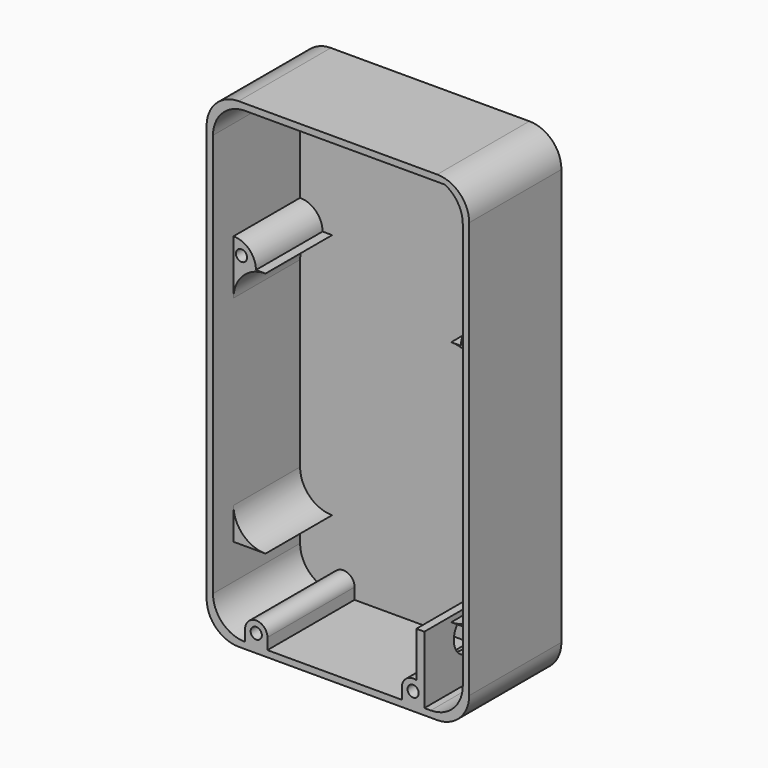
from build123d import *

# Parameters (mm, degrees)
CYLINDER030_R             = 1.75
CYLINDER030_DEPTH         = 8
CYLINDER029_R             = 1.75
CYLINDER029_DEPTH         = 8
CYLINDER027_W             = 7
CYLINDER027_H             = 26
CYLINDER027_ANGLE         = 90
CYLINDER028_W             = 7
CYLINDER028_H             = 26
CYLINDER028_ANGLE         = 90
CYLINDER022_R             = 1.75
CYLINDER022_DEPTH         = 8
CYLINDER026_R             = 7
CYLINDER026_DEPTH         = 5
CYLINDER025_R             = 6
CYLINDER025_DEPTH         = 20
FUSION007_PLACEMENT_ANGLE = 270
CYLINDER024_R             = 1.75
CYLINDER024_DEPTH         = 8
CYLINDER023_R             = 3.5
CYLINDER023_DEPTH         = 34
BOX022_W                  = 7
BOX022_H                  = 34
BOX022_DEPTH              = 3.5
BOX023_W                  = 7
BOX023_H                  = 34
BOX023_DEPTH              = 3.5
BOX024_W                  = 2.5
BOX024_H                  = 34
BOX024_DEPTH              = 17.5
CYLINDER017_W             = 10
CYLINDER017_H             = 26
CYLINDER017_ANGLE         = 90
BOX018_W                  = 10
BOX018_H                  = 26
BOX018_DEPTH              = 10
CUT018_PLACEMENT_ANGLE    = 180
CYLINDER018_W             = 10
CYLINDER018_H             = 26
CYLINDER018_ANGLE         = 90
BOX019_W                  = 10
BOX019_H                  = 26
BOX019_DEPTH              = 10
CUT019_PLACEMENT_ANGLE    = 270
CYLINDER019_W             = 10
CYLINDER019_H             = 26
CYLINDER019_ANGLE         = 90
BOX020_W                  = 10
BOX020_H                  = 26
BOX020_DEPTH              = 10
CYLINDER020_W             = 10
CYLINDER020_H             = 26
CYLINDER020_ANGLE         = 90
BOX021_W                  = 10
BOX021_H                  = 26
BOX021_DEPTH              = 10
CUT021_PLACEMENT_ANGLE    = 270
CYLINDER014_W             = 10
CYLINDER014_H             = 34
CYLINDER014_ANGLE         = 90
BOX015_W                  = 10
BOX015_H                  = 34
BOX015_DEPTH              = 10
CUT013_PLACEMENT_ANGLE    = 180
CYLINDER015_W             = 10
CYLINDER015_H             = 34
CYLINDER015_ANGLE         = 90
BOX016_W                  = 10
BOX016_H                  = 34
BOX016_DEPTH              = 10
CUT014_PLACEMENT_ANGLE    = 180
CYLINDER016_W             = 10
CYLINDER016_H             = 34
CYLINDER016_ANGLE         = 90
BOX017_W                  = 10
BOX017_H                  = 34
BOX017_DEPTH              = 10
CUT015_PITCH_ANGLE        = -90
CUT015_PLACEMENT_ANGLE    = 180
CYLINDER013_W             = 10
CYLINDER013_H             = 34
CYLINDER013_ANGLE         = 90
BOX013_W                  = 10
BOX013_H                  = 34
BOX013_DEPTH              = 10
CUT012_PITCH_ANGLE        = 90
CUT012_PLACEMENT_ANGLE    = -180
BOX014_W                  = 78
BOX014_H                  = 34
BOX014_DEPTH              = 146
CYLINDER009_W             = 10
CYLINDER009_H             = 36
CYLINDER009_ANGLE         = 90
BOX009_W                  = 10
BOX009_H                  = 36
BOX009_DEPTH              = 10
CUT007_PLACEMENT_ANGLE    = 180
CYLINDER010_W             = 10
CYLINDER010_H             = 36
CYLINDER010_ANGLE         = 90
BOX010_W                  = 10
BOX010_H                  = 36
BOX010_DEPTH              = 10
CUT008_PLACEMENT_ANGLE    = 180
CYLINDER011_W             = 10
CYLINDER011_H             = 36
CYLINDER011_ANGLE         = 90
BOX011_W                  = 10
BOX011_H                  = 36
BOX011_DEPTH              = 10
CUT009_PITCH_ANGLE        = -90
CUT009_PLACEMENT_ANGLE    = -180
CYLINDER008_W             = 10
CYLINDER008_H             = 36
CYLINDER008_ANGLE         = 90
BOX007_W                  = 10
BOX007_H                  = 36
BOX007_DEPTH              = 10
CUT006_PITCH_ANGLE        = 90
CUT006_PLACEMENT_ANGLE    = -180
BOX008_W                  = 82
BOX008_H                  = 36
BOX008_DEPTH              = 150
CYLINDER021_R             = 3.5
CYLINDER021_DEPTH         = 34


with BuildPart() as cylinder030:
    # Cylinder030 → Cylinder030 (new body)
    with BuildSketch(Plane(origin=(75.5, -2, 100.5), x_dir=(1, 0, 0), z_dir=(0, -1, 0))):
        Circle(CYLINDER030_R)
    extrude(amount=CYLINDER030_DEPTH)


with BuildPart() as basecuts001:
    # Cylinder029 → Cylinder029 (new body)
    with BuildSketch(Plane(origin=(2.5, -2, 100.5), x_dir=(1, 0, 0), z_dir=(0, -1, 0))):
        Circle(CYLINDER029_R)
    extrude(amount=CYLINDER029_DEPTH)

    # Fusion011: union Cylinder030
    add(cylinder030.part)


with BuildPart() as basecuts001_1:
    # Fusion011 placement: moved
    add(basecuts001.part.moved(Location((0, 8, 0))))


with BuildPart() as mainmounts:
    # Cylinder027 → Cylinder027 (revolve)
    with BuildSketch(Plane(origin=(0, 24, 98), x_dir=(1, 0, 0), z_dir=(0, 0, -1))):
        with Locations((3.5, 13)):
            Rectangle(CYLINDER027_W, CYLINDER027_H)
    revolve(axis=Axis((0, 24, 98), (0, -1, 0)), revolution_arc=CYLINDER027_ANGLE)


with BuildPart() as fusion012:
    # Cylinder028 → Cylinder028 (revolve)
    with BuildSketch(Plane(origin=(78, 24, 98), x_dir=(0, 0, 1), z_dir=(1, 0, 0))):
        with Locations((3.5, 13)):
            Rectangle(CYLINDER028_W, CYLINDER028_H)
    revolve(axis=Axis((78, 24, 98), (0, -1, 0)), revolution_arc=CYLINDER028_ANGLE)

    # Fusion012: union mainMounts
    add(mainmounts.part)


with BuildPart() as cylinder022:
    # Cylinder022 → Cylinder022 (new body)
    with BuildSketch(Plane(origin=(13.5, -2, 3.5), x_dir=(1, 0, 0), z_dir=(0, -1, 0))):
        Circle(CYLINDER022_R)
    extrude(amount=CYLINDER022_DEPTH)


with BuildPart() as cylinder026:
    # Cylinder026 → Cylinder026 (new body)
    with BuildSketch(Plane.XY):
        Circle(CYLINDER026_R)
    extrude(amount=CYLINDER026_DEPTH)


with BuildPart() as powerswitch:
    # Cylinder025 → Cylinder025 (new body)
    with BuildSketch(Plane.XY):
        Circle(CYLINDER025_R)
    extrude(amount=CYLINDER025_DEPTH)

    # Fusion007: union Cylinder026
    add(cylinder026.part)


with BuildPart() as powerswitch_1:
    # Fusion007 placement: moved
    add(powerswitch.part.moved(Location((71, 7.5, 14))).rotate(Axis((71, 7.5, 14), (0, 1, 0)), FUSION007_PLACEMENT_ANGLE))


with BuildPart() as basecuts:
    # Cylinder024 → Cylinder024 (new body)
    with BuildSketch(Plane(origin=(62.5, -2, 3.5), x_dir=(1, 0, 0), z_dir=(0, -1, 0))):
        Circle(CYLINDER024_R)
    extrude(amount=CYLINDER024_DEPTH)

    # Fusion010: union Cylinder022, powerSwitch
    add(cylinder022.part)
    add(powerswitch_1.part)


with BuildPart() as cylinder023:
    # Cylinder023 → Cylinder023 (new body)
    with BuildSketch(Plane(origin=(62.5, 24, 3.5), x_dir=(1, 0, 0), z_dir=(0, -1, 0))):
        Circle(CYLINDER023_R)
    extrude(amount=CYLINDER023_DEPTH)


with BuildPart() as cube017:
    # Box022 → Box022 (new body)
    with BuildSketch(Plane(origin=(10, 24, 3.5), x_dir=(1, 0, 0), z_dir=(0, 0, -1))):
        with Locations((3.5, 17)):
            Rectangle(BOX022_W, BOX022_H)
    extrude(amount=BOX022_DEPTH)


with BuildPart() as cube018:
    # Box023 → Box023 (new body)
    with BuildSketch(Plane(origin=(59, 24, 3.5), x_dir=(1, 0, 0), z_dir=(0, 0, -1))):
        with Locations((3.5, 17)):
            Rectangle(BOX023_W, BOX023_H)
    extrude(amount=BOX023_DEPTH)


with BuildPart() as cube019:
    # Box024 → Box024 (new body)
    with BuildSketch(Plane(origin=(63.5, 24, 21), x_dir=(1, 0, 0), z_dir=(0, 0, -1))):
        with Locations((1.25, 17)):
            Rectangle(BOX024_W, BOX024_H)
    extrude(amount=BOX024_DEPTH)


with BuildPart() as cylinder017:
    # Cylinder017 → Cylinder017 (revolve)
    with BuildSketch(Plane(origin=(0, 26, 0), x_dir=(1, 0, 0), z_dir=(0, 0, -1))):
        with Locations((5, 13)):
            Rectangle(CYLINDER017_W, CYLINDER017_H)
    revolve(axis=Axis((0, 26, 0), (0, -1, 0)), revolution_arc=CYLINDER017_ANGLE)


with BuildPart() as batterysupport:
    # Box018 → Box018 (new body)
    with BuildSketch(Plane(origin=(10, 26, 0), x_dir=(-1, 0, 0), z_dir=(0, 0, 1))):
        with Locations((5, 13)):
            Rectangle(BOX018_W, BOX018_H)
    extrude(amount=BOX018_DEPTH)

    # Cut018: cut Cylinder017
    add(cylinder017.part, mode=Mode.SUBTRACT)


with BuildPart() as batterysupport_1:
    # Cut018 placement: moved
    add(batterysupport.part.moved(Location((10, -2, 31))).rotate(Axis((10, -2, 31), (0, 1, 0)), CUT018_PLACEMENT_ANGLE))


with BuildPart() as cylinder018:
    # Cylinder018 → Cylinder018 (revolve)
    with BuildSketch(Plane(origin=(0, 26, 0), x_dir=(1, 0, 0), z_dir=(0, 0, -1))):
        with Locations((5, 13)):
            Rectangle(CYLINDER018_W, CYLINDER018_H)
    revolve(axis=Axis((0, 26, 0), (0, -1, 0)), revolution_arc=CYLINDER018_ANGLE)


with BuildPart() as batterysupport001:
    # Box019 → Box019 (new body)
    with BuildSketch(Plane(origin=(10, 26, 0), x_dir=(-1, 0, 0), z_dir=(0, 0, 1))):
        with Locations((5, 13)):
            Rectangle(BOX019_W, BOX019_H)
    extrude(amount=BOX019_DEPTH)

    # Cut019: cut Cylinder018
    add(cylinder018.part, mode=Mode.SUBTRACT)


with BuildPart() as batterysupport001_1:
    # Cut019 placement: moved
    add(batterysupport001.part.moved(Location((68, -2, 31))).rotate(Axis((68, -2, 31), (0, -1, 0)), CUT019_PLACEMENT_ANGLE))


with BuildPart() as cylinder019:
    # Cylinder019 → Cylinder019 (revolve)
    with BuildSketch(Plane(origin=(0, 26, 0), x_dir=(1, 0, 0), z_dir=(0, 0, -1))):
        with Locations((5, 13)):
            Rectangle(CYLINDER019_W, CYLINDER019_H)
    revolve(axis=Axis((0, 26, 0), (0, -1, 0)), revolution_arc=CYLINDER019_ANGLE)


with BuildPart() as batterysupport002:
    # Box020 → Box020 (new body)
    with BuildSketch(Plane(origin=(10, 26, 0), x_dir=(-1, 0, 0), z_dir=(0, 0, 1))):
        with Locations((5, 13)):
            Rectangle(BOX020_W, BOX020_H)
    extrude(amount=BOX020_DEPTH)

    # Cut020: cut Cylinder019
    add(cylinder019.part, mode=Mode.SUBTRACT)


with BuildPart() as batterysupport002_1:
    # Cut020 placement: moved
    add(batterysupport002.part.moved(Location((68, -2, 88))))


with BuildPart() as cylinder020:
    # Cylinder020 → Cylinder020 (revolve)
    with BuildSketch(Plane(origin=(0, 26, 0), x_dir=(1, 0, 0), z_dir=(0, 0, -1))):
        with Locations((5, 13)):
            Rectangle(CYLINDER020_W, CYLINDER020_H)
    revolve(axis=Axis((0, 26, 0), (0, -1, 0)), revolution_arc=CYLINDER020_ANGLE)


with BuildPart() as batterysupport003:
    # Box021 → Box021 (new body)
    with BuildSketch(Plane(origin=(10, 26, 0), x_dir=(-1, 0, 0), z_dir=(0, 0, 1))):
        with Locations((5, 13)):
            Rectangle(BOX021_W, BOX021_H)
    extrude(amount=BOX021_DEPTH)

    # Cut021: cut Cylinder020
    add(cylinder020.part, mode=Mode.SUBTRACT)


with BuildPart() as batterysupport003_1:
    # Cut021 placement: moved
    add(batterysupport003.part.moved(Location((10, -2, 88))).rotate(Axis((10, -2, 88), (0, 1, 0)), CUT021_PLACEMENT_ANGLE))


with BuildPart() as cylinder014:
    # Cylinder014 → Cylinder014 (revolve)
    with BuildSketch(Plane(origin=(0, 26, 0), x_dir=(1, 0, 0), z_dir=(0, 0, -1))):
        with Locations((5, 17)):
            Rectangle(CYLINDER014_W, CYLINDER014_H)
    revolve(axis=Axis((0, 26, 0), (0, -1, 0)), revolution_arc=CYLINDER014_ANGLE)


with BuildPart() as cut013:
    # Box015 → Box015 (new body)
    with BuildSketch(Plane(origin=(0, -8, 0), x_dir=(1, 0, 0), z_dir=(0, 0, 1))):
        with Locations((5, 17)):
            Rectangle(BOX015_W, BOX015_H)
    extrude(amount=BOX015_DEPTH)

    # Cut013: cut Cylinder014
    add(cylinder014.part, mode=Mode.SUBTRACT)


with BuildPart() as cut013_1:
    # Cut013 placement: moved
    add(cut013.part.moved(Location((70, 18, 8))).rotate(Axis((70, 18, 8), (1, 0, 0)), CUT013_PLACEMENT_ANGLE))


with BuildPart() as cylinder015:
    # Cylinder015 → Cylinder015 (revolve)
    with BuildSketch(Plane(origin=(0, 26, 0), x_dir=(1, 0, 0), z_dir=(0, 0, -1))):
        with Locations((5, 17)):
            Rectangle(CYLINDER015_W, CYLINDER015_H)
    revolve(axis=Axis((0, 26, 0), (0, -1, 0)), revolution_arc=CYLINDER015_ANGLE)


with BuildPart() as cut014:
    # Box016 → Box016 (new body)
    with BuildSketch(Plane(origin=(0, -8, 0), x_dir=(1, 0, 0), z_dir=(0, 0, 1))):
        with Locations((5, 17)):
            Rectangle(BOX016_W, BOX016_H)
    extrude(amount=BOX016_DEPTH)

    # Cut014: cut Cylinder015
    add(cylinder015.part, mode=Mode.SUBTRACT)


with BuildPart() as cut014_1:
    # Cut014 placement: moved
    add(cut014.part.moved(Location((12, 18, 134))).rotate(Axis((12, 18, 134), (0, 0, 1)), CUT014_PLACEMENT_ANGLE))


with BuildPart() as cylinder016:
    # Cylinder016 → Cylinder016 (revolve)
    with BuildSketch(Plane(origin=(0, 26, 0), x_dir=(1, 0, 0), z_dir=(0, 0, -1))):
        with Locations((5, 17)):
            Rectangle(CYLINDER016_W, CYLINDER016_H)
    revolve(axis=Axis((0, 26, 0), (0, -1, 0)), revolution_arc=CYLINDER016_ANGLE)


with BuildPart() as cut015:
    # Box017 → Box017 (new body)
    with BuildSketch(Plane(origin=(0, -8, 0), x_dir=(1, 0, 0), z_dir=(0, 0, 1))):
        with Locations((5, 17)):
            Rectangle(BOX017_W, BOX017_H)
    extrude(amount=BOX017_DEPTH)

    # Cut015: cut Cylinder016
    add(cylinder016.part, mode=Mode.SUBTRACT)


with BuildPart() as cut015_1:
    # Cut015 pitch: moved
    add(cut015.part.rotate(Axis((0, 0, 0), (0, 1, 0)), CUT015_PITCH_ANGLE))


with BuildPart() as cut015_2:
    # Cut015 placement: moved
    add(cut015_1.part.moved(Location((70, 18, 135))).rotate(Axis((70, 18, 135), (0, 0, 1)), CUT015_PLACEMENT_ANGLE))


with BuildPart() as cylinder013:
    # Cylinder013 → Cylinder013 (revolve)
    with BuildSketch(Plane(origin=(0, 26, 0), x_dir=(1, 0, 0), z_dir=(0, 0, -1))):
        with Locations((5, 17)):
            Rectangle(CYLINDER013_W, CYLINDER013_H)
    revolve(axis=Axis((0, 26, 0), (0, -1, 0)), revolution_arc=CYLINDER013_ANGLE)


with BuildPart() as fusion006:
    # Box013 → Box013 (new body)
    with BuildSketch(Plane(origin=(0, -8, 0), x_dir=(1, 0, 0), z_dir=(0, 0, 1))):
        with Locations((5, 17)):
            Rectangle(BOX013_W, BOX013_H)
    extrude(amount=BOX013_DEPTH)

    # Cut012: cut Cylinder013
    add(cylinder013.part, mode=Mode.SUBTRACT)


with BuildPart() as fusion006_1:
    # Cut012 pitch: moved
    add(fusion006.part.rotate(Axis((0, 0, 0), (0, 1, 0)), CUT012_PITCH_ANGLE))


with BuildPart() as fusion006_2:
    # Cut012 placement: moved
    add(fusion006_1.part.moved(Location((12, 18, 8))).rotate(Axis((12, 18, 8), (0, 0, 1)), CUT012_PLACEMENT_ANGLE))

    # Fusion006: union Cut013, Cut014, Cut015
    add(cut013_1.part)
    add(cut014_1.part)
    add(cut015_2.part)


with BuildPart() as obj1:
    # Box014 → Box014 (new body)
    with BuildSketch(Plane(origin=(80, 26, -2), x_dir=(-1, 0, 0), z_dir=(0, 0, 1))):
        with Locations((39, 17)):
            Rectangle(BOX014_W, BOX014_H)
    extrude(amount=BOX014_DEPTH)

    # Cut016: cut Fusion006
    add(fusion006_2.part, mode=Mode.SUBTRACT)


with BuildPart() as obj1_1:
    # Cut016 placement: moved
    add(obj1.part.moved(Location((-2, -2, 2))))


with BuildPart() as cylinder009:
    # Cylinder009 → Cylinder009 (revolve)
    with BuildSketch(Plane(origin=(0, 26, 0), x_dir=(1, 0, 0), z_dir=(0, 0, -1))):
        with Locations((5, 18)):
            Rectangle(CYLINDER009_W, CYLINDER009_H)
    revolve(axis=Axis((0, 26, 0), (0, -1, 0)), revolution_arc=CYLINDER009_ANGLE)


with BuildPart() as cut007:
    # Box009 → Box009 (new body)
    with BuildSketch(Plane(origin=(0, -10, 0), x_dir=(1, 0, 0), z_dir=(0, 0, 1))):
        with Locations((5, 18)):
            Rectangle(BOX009_W, BOX009_H)
    extrude(amount=BOX009_DEPTH)

    # Cut007: cut Cylinder009
    add(cylinder009.part, mode=Mode.SUBTRACT)


with BuildPart() as cut007_1:
    # Cut007 placement: moved
    add(cut007.part.moved(Location((70, 18, 8))).rotate(Axis((70, 18, 8), (1, 0, 0)), CUT007_PLACEMENT_ANGLE))


with BuildPart() as cylinder010:
    # Cylinder010 → Cylinder010 (revolve)
    with BuildSketch(Plane(origin=(0, 26, 0), x_dir=(1, 0, 0), z_dir=(0, 0, -1))):
        with Locations((5, 18)):
            Rectangle(CYLINDER010_W, CYLINDER010_H)
    revolve(axis=Axis((0, 26, 0), (0, -1, 0)), revolution_arc=CYLINDER010_ANGLE)


with BuildPart() as cut008:
    # Box010 → Box010 (new body)
    with BuildSketch(Plane(origin=(0, -10, 0), x_dir=(1, 0, 0), z_dir=(0, 0, 1))):
        with Locations((5, 18)):
            Rectangle(BOX010_W, BOX010_H)
    extrude(amount=BOX010_DEPTH)

    # Cut008: cut Cylinder010
    add(cylinder010.part, mode=Mode.SUBTRACT)


with BuildPart() as cut008_1:
    # Cut008 placement: moved
    add(cut008.part.moved(Location((8, 18, 138))).rotate(Axis((8, 18, 138), (0, 0, 1)), CUT008_PLACEMENT_ANGLE))


with BuildPart() as cylinder011:
    # Cylinder011 → Cylinder011 (revolve)
    with BuildSketch(Plane(origin=(0, 26, 0), x_dir=(1, 0, 0), z_dir=(0, 0, -1))):
        with Locations((5, 18)):
            Rectangle(CYLINDER011_W, CYLINDER011_H)
    revolve(axis=Axis((0, 26, 0), (0, -1, 0)), revolution_arc=CYLINDER011_ANGLE)


with BuildPart() as cut009:
    # Box011 → Box011 (new body)
    with BuildSketch(Plane(origin=(0, -10, 0), x_dir=(1, 0, 0), z_dir=(0, 0, 1))):
        with Locations((5, 18)):
            Rectangle(BOX011_W, BOX011_H)
    extrude(amount=BOX011_DEPTH)

    # Cut009: cut Cylinder011
    add(cylinder011.part, mode=Mode.SUBTRACT)


with BuildPart() as cut009_1:
    # Cut009 pitch: moved
    add(cut009.part.rotate(Axis((0, 0, 0), (0, 1, 0)), CUT009_PITCH_ANGLE))


with BuildPart() as cut009_2:
    # Cut009 placement: moved
    add(cut009_1.part.moved(Location((70, 18, 138))).rotate(Axis((70, 18, 138), (0, 0, 1)), CUT009_PLACEMENT_ANGLE))


with BuildPart() as cylinder008:
    # Cylinder008 → Cylinder008 (revolve)
    with BuildSketch(Plane(origin=(0, 26, 0), x_dir=(1, 0, 0), z_dir=(0, 0, -1))):
        with Locations((5, 18)):
            Rectangle(CYLINDER008_W, CYLINDER008_H)
    revolve(axis=Axis((0, 26, 0), (0, -1, 0)), revolution_arc=CYLINDER008_ANGLE)


with BuildPart() as fusion005:
    # Box007 → Box007 (new body)
    with BuildSketch(Plane(origin=(0, -10, 0), x_dir=(1, 0, 0), z_dir=(0, 0, 1))):
        with Locations((5, 18)):
            Rectangle(BOX007_W, BOX007_H)
    extrude(amount=BOX007_DEPTH)

    # Cut006: cut Cylinder008
    add(cylinder008.part, mode=Mode.SUBTRACT)


with BuildPart() as fusion005_1:
    # Cut006 pitch: moved
    add(fusion005.part.rotate(Axis((0, 0, 0), (0, 1, 0)), CUT006_PITCH_ANGLE))


with BuildPart() as fusion005_2:
    # Cut006 placement: moved
    add(fusion005_1.part.moved(Location((8, 18, 8))).rotate(Axis((8, 18, 8), (0, 0, 1)), CUT006_PLACEMENT_ANGLE))

    # Fusion005: union Cut007, Cut008, Cut009
    add(cut007_1.part)
    add(cut008_1.part)
    add(cut009_2.part)


with BuildPart() as fusion005_3:
    # Fusion005 placement: moved
    add(fusion005_2.part.moved(Location((0, -2, 0))))


with BuildPart() as base:
    # Box008 → Box008 (new body)
    with BuildSketch(Plane(origin=(80, 26, -2), x_dir=(-1, 0, 0), z_dir=(0, 0, 1))):
        with Locations((41, 18)):
            Rectangle(BOX008_W, BOX008_H)
    extrude(amount=BOX008_DEPTH)

    # Cut010: cut Fusion005
    add(fusion005_3.part, mode=Mode.SUBTRACT)

    # Cut017: cut obj1
    add(obj1_1.part, mode=Mode.SUBTRACT)

    # Fusion008: union batterySupport, batterySupport001, batterySupport002, batterySupport003
    add(batterysupport_1.part)
    add(batterysupport001_1.part)
    add(batterysupport002_1.part)
    add(batterysupport003_1.part)


with BuildPart() as basebottom:
    # Cylinder021 → Cylinder021 (new body)
    with BuildSketch(Plane(origin=(13.5, 24, 3.5), x_dir=(1, 0, 0), z_dir=(0, -1, 0))):
        Circle(CYLINDER021_R)
    extrude(amount=CYLINDER021_DEPTH)

    # Fusion009: union Cylinder023, Cube017, Cube018, Cube019, base
    add(cylinder023.part)
    add(cube017.part)
    add(cube018.part)
    add(cube019.part)
    add(base.part)

    # Cut022: cut baseCuts
    add(basecuts.part, mode=Mode.SUBTRACT)

    # Fusion013: union Fusion012
    add(fusion012.part)

    # Cut023: cut baseCuts001
    add(basecuts001_1.part, mode=Mode.SUBTRACT)


solid = basebottom.part
